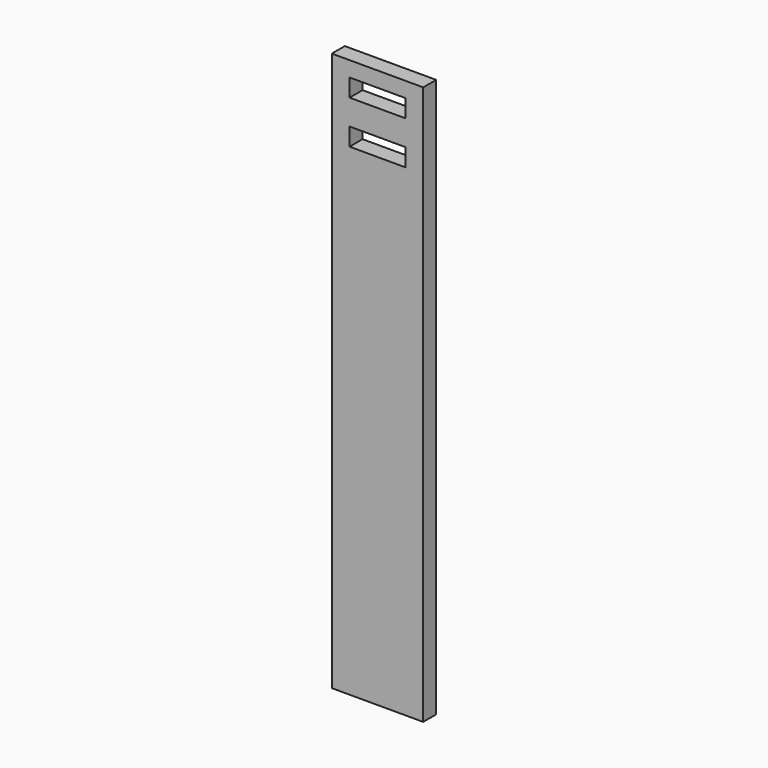
from build123d import *

# Parameters (mm, degrees)
F0_W     = 11
F0_H     = 3.5
F0_W_2   = 3.5
F1_DEPTH = 3.2


with BuildPart() as f1:
    # F0 (on Front) → F1 (new body)
    with BuildSketch(Plane.XZ):
        Polygon((12.312121, 101.111746), (-5.687879, 101.111746), (-5.687879, 89.611746), (-2.187879, 89.611746), (8.812121, 89.611746), (12.312121, 89.611746), align=None)
        with Locations((3.312121, 96.361746)):
            Rectangle(F0_W, F0_H, mode=Mode.SUBTRACT)
        Polygon((-2.187879, 86.111746), (-5.687879, 86.111746), (-5.687879, -8.888254), (12.312121, -8.888254), (12.312121, 86.111746), (8.812121, 86.111746), align=None)
        with Locations((10.562121, 87.861746)):
            Rectangle(F0_W_2, F0_H)
        with Locations((-3.937879, 87.861746)):
            Rectangle(F0_W_2, F0_H)
    extrude(amount=-F1_DEPTH)


solid = f1.part
